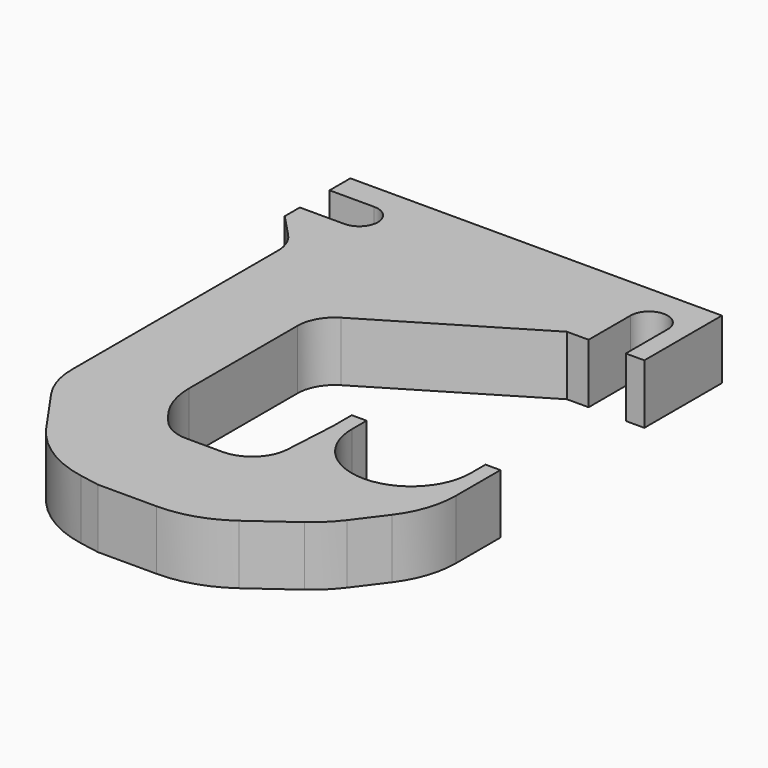
from build123d import *

# Parameters (mm, degrees)
F1_DEPTH = 10.16


with BuildPart() as f1:
    # F0 (on Top) → F1 (new body)
    with BuildSketch(Plane.XY):
        with BuildLine():
            Line((18.283302, 27.538015), (-45.216698, 27.538015))
            Line((-45.216698, 27.538015), (-45.216698, 23.093015))
            Line((-45.216698, 23.093015), (-37.596698, 23.093015))
            ThreePointArc((-37.596698, 23.093015), (-34.421698, 19.918015), (-37.596698, 16.743015))
            Line((-37.596698, 16.743015), (-45.216698, 16.743015))
            Line((-45.216698, 16.743015), (-45.216698, 13.521496))
            Line((-45.216698, 13.521496), (-41.450343, 9.545519))
            ThreePointArc((-41.450343, 9.545519), (-40.161365, 7.528981), (-39.71035, 5.178561))
            Line((-39.71035, 5.178561), (-39.71035, 0))
            Line((-39.71035, 0), (-39.71035, -11.935322))
            Line((-39.71035, -11.935322), (-39.71035, -38.863696))
            ThreePointArc((-39.71035, -38.863696), (-39.126717, -42.669437), (-37.429458, -46.12539))
            Line((-37.429458, -46.12539), (-31.81686, -54.178368))
            ThreePointArc((-31.81686, -54.178368), (-26.46314, -59.327276), (-19.547277, -62.037337))
            Line((-19.547277, -62.037337), (-16.22775, -62.631985))
            Line((-16.22775, -62.631985), (-6.169953, -62.631985))
            ThreePointArc((-6.169953, -62.631985), (-0.300192, -61.70513), (4.998398, -59.014756))
            Line((4.998398, -59.014756), (12.073002, -53.895024))
            ThreePointArc((12.073002, -53.895024), (14.264142, -52.042624), (16.152222, -49.882151))
            Line((16.152222, -49.882151), (19.872591, -44.914805))
            ThreePointArc((19.872591, -44.914805), (22.267911, -40.337641), (23.094574, -35.238169))
            Line((23.094574, -35.238169), (23.094574, -25.801985))
            Line((23.094574, -25.801985), (20.554574, -25.801985))
            Line((20.554574, -25.801985), (20.554574, -28.976985))
            ThreePointArc((20.554574, -28.976985), (10.394574, -39.136985), (0.234574, -28.976985))
            Line((0.234574, -28.976985), (0.234574, -25.801985))
            Line((0.234574, -25.801985), (-2.305426, -25.801985))
            Line((-2.305426, -25.801985), (-2.305426, -29.815541))
            Line((-2.305426, -29.815541), (-2.815859, -38.859792))
            ThreePointArc((-2.815859, -38.859792), (-4.79398, -43.116883), (-9.15577, -44.851985))
            Line((-9.15577, -44.851985), (-15.32821, -44.851985))
            ThreePointArc((-15.32821, -44.851985), (-18.095302, -44.230307), (-20.330554, -42.484761))
            Line((-20.330554, -42.484761), (-21.217168, -41.40349))
            ThreePointArc((-21.217168, -41.40349), (-23.356399, -37.624431), (-24.098356, -33.345752))
            Line((-24.098356, -33.345752), (-24.098356, -10.125209))
            ThreePointArc((-24.098356, -10.125209), (-23.274125, -6.996571), (-21.015404, -4.680129))
            Line((-21.015404, -4.680129), (5.063632, 10.967293))
            Line((5.063632, 10.967293), (8.758302, 10.967293))
            Line((8.758302, 10.967293), (8.758302, 19.918015))
            ThreePointArc((8.758302, 19.918015), (11.933302, 23.093015), (15.108302, 19.918015))
            Line((15.108302, 19.918015), (15.108302, 10.967293))
            Line((15.108302, 10.967293), (18.283302, 10.967293))
            Line((18.283302, 10.967293), (18.283302, 23.795817))
            Line((18.283302, 23.795817), (18.283302, 27.538015))
        make_face()
    extrude(amount=F1_DEPTH)


solid = f1.part
